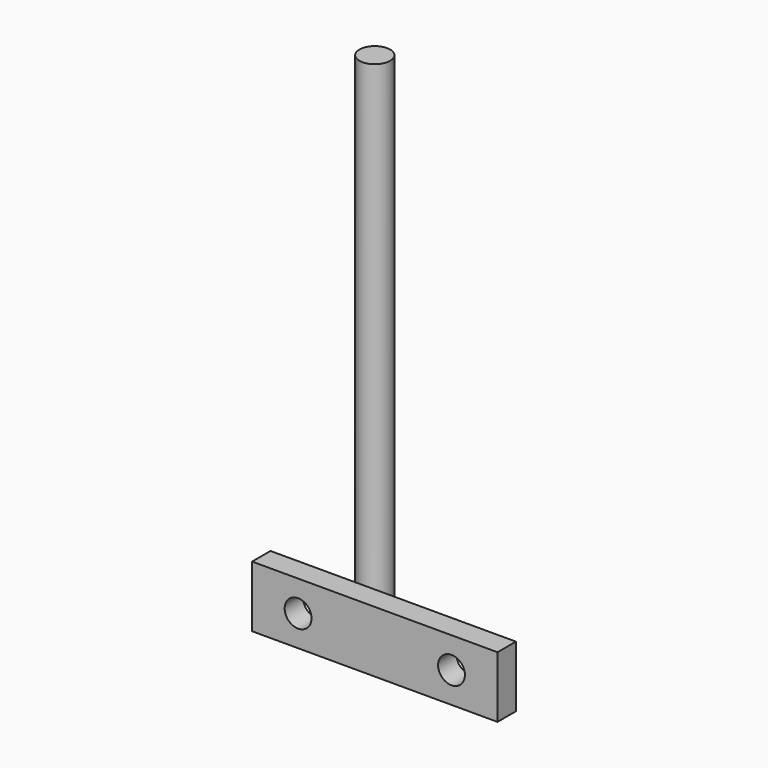
from build123d import *

# Parameters (mm, degrees)
F0_W      = 101.6
F0_H      = 25.4
F0_R      = 5.55625
F1_DEPTH  = 9.525
F2_R      = 6.35
F3_DEPTH  = 203.2
F3_FACE_R = 6.35
F4_DEPTH  = 12.7


with BuildPart() as f1:
    # F0 (on Front) → F1 (new body)
    with BuildSketch(Plane.XZ):
        Rectangle(F0_W, F0_H)
        with Locations((-31.75, 0)):
            Circle(F0_R, mode=Mode.SUBTRACT)
        with Locations((31.75, 0)):
            Circle(F0_R, mode=Mode.SUBTRACT)
    extrude(amount=F1_DEPTH)


with BuildPart() as f3:
    # F2 (on Top) → F3 (new body)
    with BuildSketch(Plane.XY):
        with Locations((-12.7, 6.35)):
            Circle(F2_R)
    extrude(amount=F3_DEPTH)


with BuildPart() as f4:
    # F3_face (on face) → F4 (new body)
    with BuildSketch(Plane(origin=(-12.7, 6.35, 0), x_dir=(1, 0, 0), z_dir=(0, 0, -1))):
        Circle(F3_FACE_R)
    extrude(amount=F4_DEPTH)


solid = Compound([f1.part, f3.part, f4.part])
